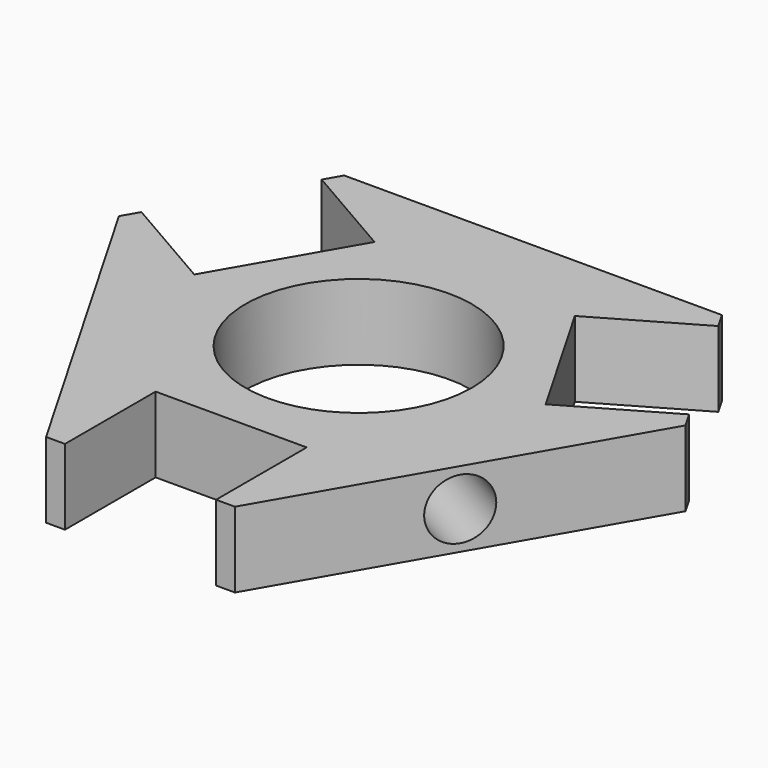
from build123d import *

# Parameters (mm, degrees)
F1_DEPTH = 10
F2_W     = 20
F2_H     = 30
F2_R     = 15
F3_DEPTH = 10.001
F4_R     = 4
F5_DEPTH = 15.4106812647


with BuildPart() as f1:
    # F0 (on Top) → F1 (new body)
    with BuildSketch(Plane.XY):
        Polygon((25, 86.6025403784), (-25, 86.6025403784), (-37.5, 64.9519052838), (-12.5, 21.6506350946), (12.5, 21.6506350946), (37.5, 64.9519052838), align=None)
    extrude(amount=F1_DEPTH)

    # F2 (on face) → F3 (cut, through all)
    with BuildSketch(Plane.XY.offset(10)):
        with Locations((0, 21.6506350946)):
            Rectangle(F2_W, F2_H)
        Polygon((-49.2403810568, 74.6169687933), (-23.2596189432, 59.6169687933), (-13.2596189432, 76.937476869), (-39.2403810568, 91.937476869), align=None)
        Polygon((39.2403810568, 91.937476869), (13.2596189432, 76.937476869), (23.2596189432, 59.6169687933), (49.2403810568, 74.6169687933), align=None)
        with Locations((0, 57.735026919)):
            Circle(F2_R)
    extrude(amount=-F3_DEPTH, mode=Mode.SUBTRACT)

    # F4 (on face) → F5 (cut, up to face)
    with BuildSketch(Plane(origin=(0, 0, 0), x_dir=(0.5, 0.8660254038, 0), z_dir=(0.8660254038, -0.5, 0))):
        with Locations((50, 5)):
            Circle(F4_R)
    extrude(amount=-F5_DEPTH, mode=Mode.SUBTRACT)


solid = f1.part
